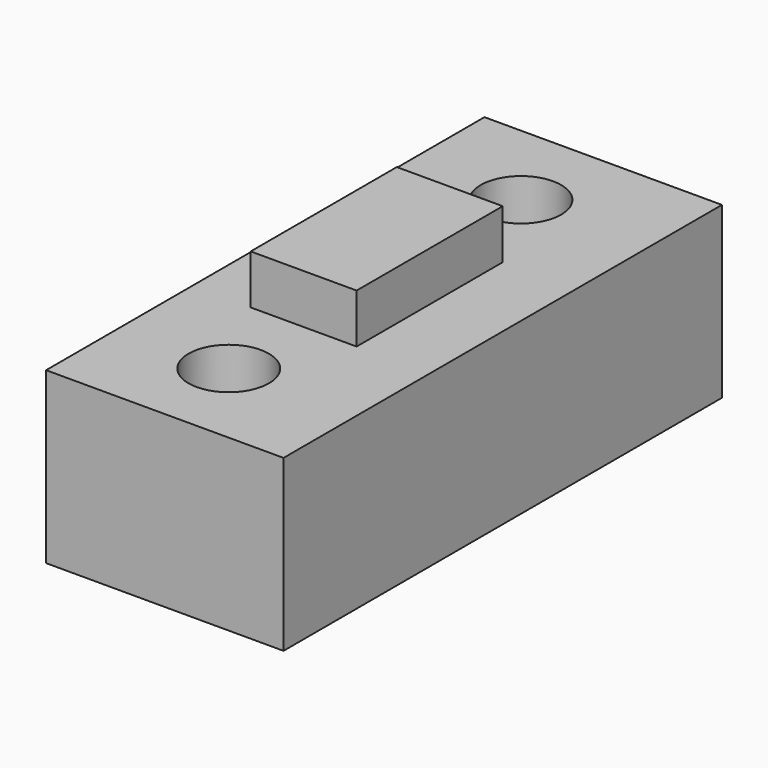
from build123d import *

# Parameters (mm, degrees)
BOX056_W                  = 10
BOX056_H                  = 4
BOX056_DEPTH              = 5.8
CYLINDER077_R             = 2.2
CYLINDER077_DEPTH         = 25
CYLINDER076_R             = 2.2
CYLINDER076_DEPTH         = 25
CYLINDER075_R             = 4
CYLINDER075_DEPTH         = 6
BOX055_W                  = 30
BOX055_H                  = 9.3
BOX055_DEPTH              = 13
FUSION044_ROLL_ANGLE      = 90
FUSION044_PLACEMENT_ANGLE = -90


with BuildPart() as quader035:
    # Box056 → Box056 (new body)
    with BuildSketch(Plane(origin=(-5, 8, 2), x_dir=(1, 0, 0), z_dir=(0, 0, 1))):
        with Locations((5, 2)):
            Rectangle(BOX056_W, BOX056_H)
    extrude(amount=BOX056_DEPTH)


with BuildPart() as zylinder066:
    # Cylinder077 → Cylinder077 (new body)
    with BuildSketch(Plane(origin=(-10, 12, 5), x_dir=(1, 0, 0), z_dir=(0, -1, 0))):
        Circle(CYLINDER077_R)
    extrude(amount=CYLINDER077_DEPTH)


with BuildPart() as zylinder065:
    # Cylinder076 → Cylinder076 (new body)
    with BuildSketch(Plane(origin=(10, 12, 5), x_dir=(1, 0, 0), z_dir=(0, -1, 0))):
        Circle(CYLINDER076_R)
    extrude(amount=CYLINDER076_DEPTH)


with BuildPart() as zylinder064:
    # Cylinder075 → Cylinder075 (new body)
    with BuildSketch(Plane.XY.offset(5.8)):
        Circle(CYLINDER075_R)
    extrude(amount=CYLINDER075_DEPTH)


with BuildPart() as y_drive_mount002:
    # Box055 → Box055 (new body)
    with BuildSketch(Plane(origin=(-15, 0, -2), x_dir=(1, 0, 0), z_dir=(0, 0, 1))):
        with Locations((15, 4.65)):
            Rectangle(BOX055_W, BOX055_H)
    extrude(amount=BOX055_DEPTH)

    # Cut084: cut Zylinder064
    add(zylinder064.part, mode=Mode.SUBTRACT)

    # Cut085: cut Zylinder065
    add(zylinder065.part, mode=Mode.SUBTRACT)

    # Cut086: cut Zylinder066
    add(zylinder066.part, mode=Mode.SUBTRACT)

    # Fusion044: union Quader035
    add(quader035.part)


with BuildPart() as y_drive_mount002_1:
    # Fusion044 roll: moved
    add(y_drive_mount002.part.rotate(Axis((0, 0, 0), (1, 0, 0)), FUSION044_ROLL_ANGLE))


with BuildPart() as y_drive_mount002_2:
    # Fusion044 placement: moved
    add(y_drive_mount002_1.part.moved(Location((403.75, 18.85, 53.2))).rotate(Axis((403.75, 18.85, 53.2), (0, 0, 1)), FUSION044_PLACEMENT_ANGLE))


solid = y_drive_mount002_2.part
